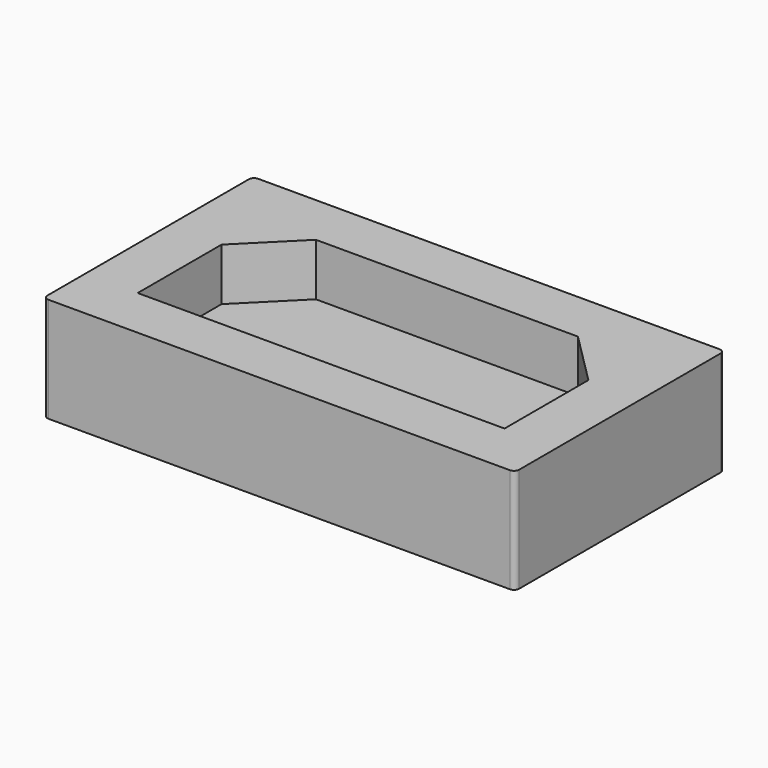
from build123d import *

# Parameters (mm, degrees)
F0_W     = 900
F0_H     = 200
F1_DEPTH = 250
F3_DEPTH = 100
F4_R     = 10


with BuildPart() as f1:
    # F0 (on Front) → F1 (new body, symmetric)
    with BuildSketch(Plane.XZ):
        Rectangle(F0_W, F0_H)
    extrude(amount=F1_DEPTH, both=True)

    # F2 (on face) → F3 (cut)
    with BuildSketch(Plane.XY.offset(100)):
        Polygon((-350, -150), (350, -150), (350, 50), (250, 150), (0, 150), (-250, 150), (-350, 50), align=None)
    extrude(amount=-F3_DEPTH, mode=Mode.SUBTRACT)

    # F4
    f4_edges = [f1.edges().sort_by_distance(p)[0] for p in [
        (450, -250, 0),
        (-450, -250, 0),
        (450, 250, 0),
        (-450, 250, 0),
    ]]
    fillet(f4_edges, radius=F4_R)


solid = f1.part
